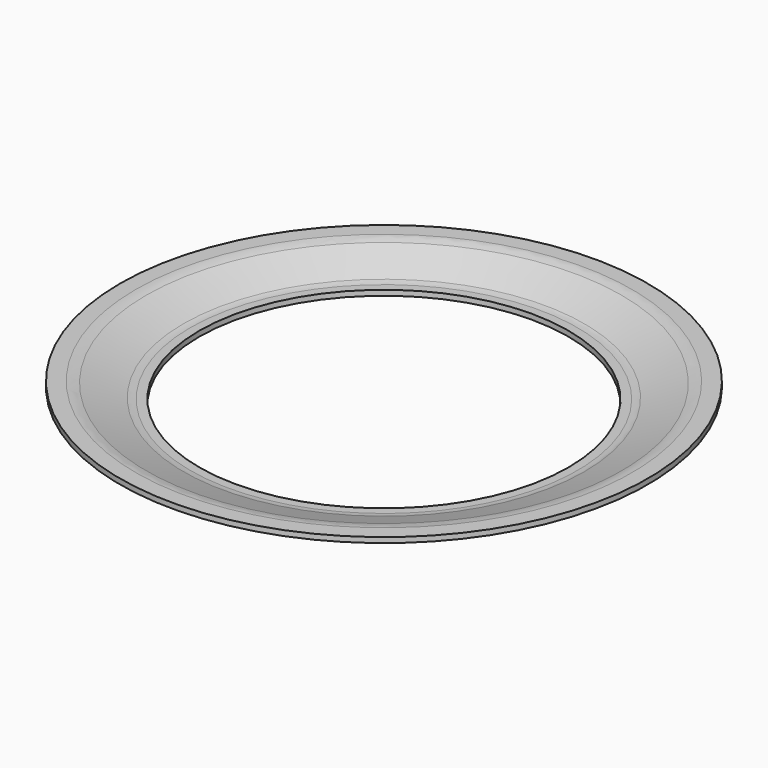
from build123d import *


with BuildPart() as f1:
    # F0 (on Front) → F1 (revolve)
    with BuildSketch(Plane.XZ):
        with BuildLine():
            Line((-73.316655, 0), (-70, 0))
            Line((-70, 0), (-70, 2))
            Line((-70, 2), (-73.316655, 2))
            ThreePointArc((-73.316655, 2), (-74.644647, 2.110993), (-75.93579, 2.440891))
            Line((-75.93579, 2.440891), (-90.071298, 7.338664))
            ThreePointArc((-90.071298, 7.338664), (-92.008012, 7.833511), (-94, 8))
            Line((-94, 8), (-100, 8))
            Line((-100, 8), (-100, 6))
            Line((-100, 6), (-94, 6))
            ThreePointArc((-94, 6), (-92.34001, 5.861259), (-90.726081, 5.448887))
            Line((-90.726081, 5.448887), (-76.590574, 0.551113))
            ThreePointArc((-76.590574, 0.551113), (-74.976645, 0.138741), (-73.316655, 0))
        make_face()
    revolve(axis=Axis((0, 0, 3.942652), (0, 0, -1)))


solid = f1.part
